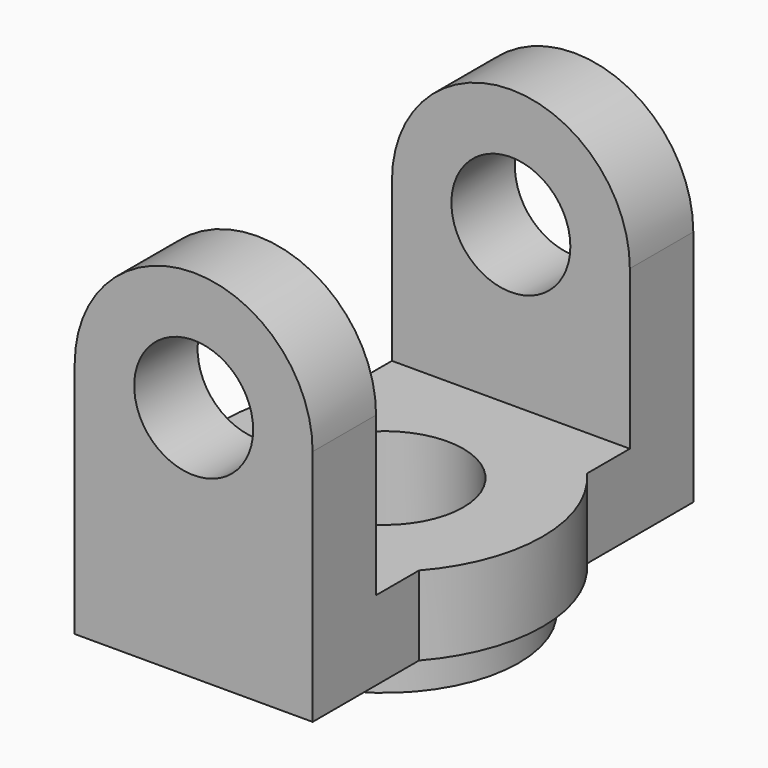
from build123d import *

# Parameters (mm, degrees)
F0_R      = 7.5
F1_DEPTH  = 10
F2_W      = 30
F2_H      = 10
F3_DEPTH  = 5
F6_DEPTH  = 30
F7_R      = 10
F8_DEPTH  = 10
F10_DEPTH = 10
F11_R     = 17
F12_DEPTH = 5
F13_DEPTH = 5


with BuildPart() as f1:
    # F0 (on Front) → F1 (new body)
    with BuildSketch(Plane.XZ):
        with BuildLine():
            Line((0, 30), (0, 0))
            Line((0, 0), (30, 0))
            Line((30, 0), (30, 30))
            ThreePointArc((30, 30), (15, 45), (0, 30))
        make_face()
        with Locations((15, 30)):
            Circle(F0_R, mode=Mode.SUBTRACT)
    extrude(amount=F1_DEPTH)

    # F2 (on face) → F3 (join)
    with BuildSketch(Plane(origin=(0, 0, 0), x_dir=(-1, 0, 0), z_dir=(0, 1, 0))):
        with Locations((-15, 5)):
            Rectangle(F2_W, F2_H)
    extrude(amount=F3_DEPTH)


with BuildPart() as f5_1:
    # F5: instance of F1
    add(f1.part.mirror(Plane(origin=(15, 20, 5), x_dir=(-1, 0, 0), z_dir=(0, 1, 0))))


with BuildPart() as f1_1:
    add(f1.part)

    # F6 (add, through all): a face of the model
    f6_faces = [f5_1.part.faces().sort_by_distance(p)[0] for p in [
        (15, 35, 5),
    ]]

    add(f5_1.part)  # F6 merges F5_1
    extrude(f6_faces, amount=F6_DEPTH)

    # F7 (on face) → F8 (cut, through all)
    with BuildSketch(Plane.XY.offset(10)):
        with Locations((15, 20)):
            Circle(F7_R)
    extrude(amount=-F8_DEPTH, mode=Mode.SUBTRACT)

    # F9 (on face) → F10 (join)
    with BuildSketch(Plane.XY.offset(10)):
        with BuildLine():
            Line((0, 6.7712434447), (0, 33.2287565553))
            ThreePointArc((0, 33.2287565553), (-5, 20), (0, 6.7712434447))
        make_face()
        with BuildLine():
            ThreePointArc((30, 6.7712434447), (35, 20), (30, 33.2287565553))
            Line((30, 33.2287565553), (30, 6.7712434447))
        make_face()
    extrude(amount=-F10_DEPTH)

    # F11 (on face) → F12 (join)
    with BuildSketch(Plane(origin=(0, 0, 0), x_dir=(1, 0, 0), z_dir=(0, 0, -1))):
        with Locations((15, -20)):
            Circle(F11_R)
    extrude(amount=F12_DEPTH)

    # F13 (cut, through all): a face of the model
    f13_faces = [f1_1.faces().sort_by_distance(p)[0] for p in [
        (15, 20, 0),
    ]]
    extrude(f13_faces, amount=-F13_DEPTH, mode=Mode.SUBTRACT)


solid = f1_1.part
